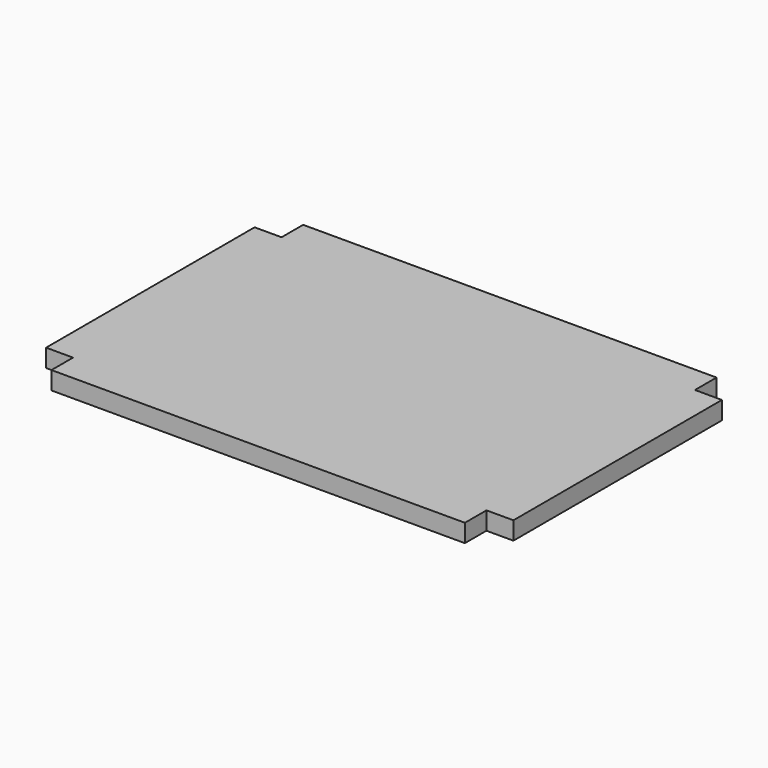
from build123d import *

# Parameters (mm, degrees)
F1_DEPTH = 20


with BuildPart() as f1:
    # F0 (on Top) → F1 (new body)
    with BuildSketch(Plane.XY):
        Polygon((230, 175), (0, 175), (-230, 175), (-230, 145), (-260, 145), (-260, 0), (-260, -145), (-230, -145), (-230, -175), (0, -175), (230, -175), (230, -145), (260, -145), (260, 0), (260, 145), (230, 145), align=None)
    extrude(amount=F1_DEPTH)


solid = f1.part
